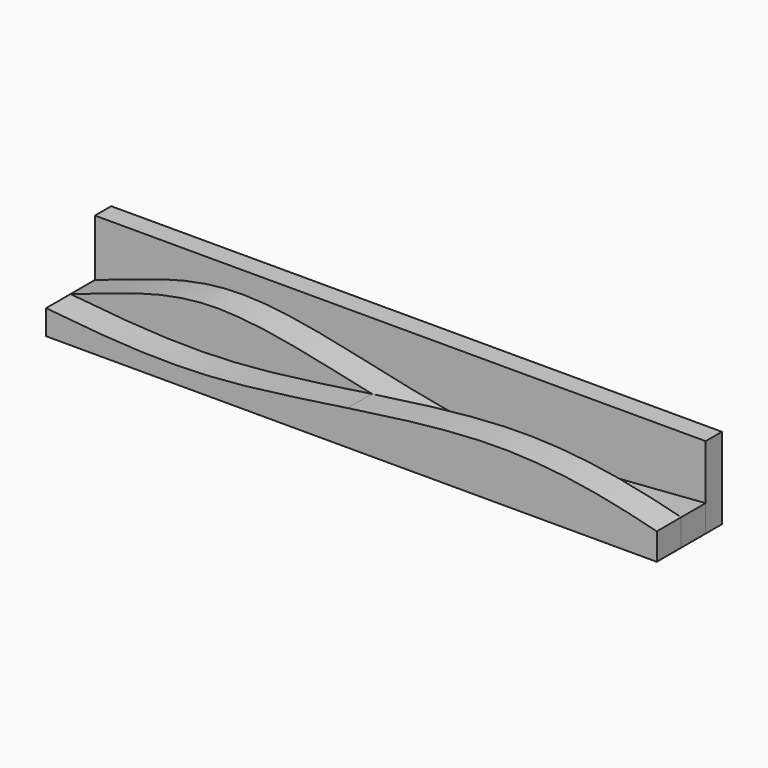
from build123d import *

# Parameters (mm, degrees)
F0_W     = 60
F0_H     = 8
F1_DEPTH = 2
F3_DEPTH = 3
F5_DEPTH = 3


with BuildPart() as f1:
    # F0 (on Front) → F1 (new body)
    with BuildSketch(Plane.XZ):
        with Locations((0, 4)):
            Rectangle(F0_W, F0_H)
    extrude(amount=F1_DEPTH)


with BuildPart() as f3:
    # F2 (on face) → F3 (new body)
    with BuildSketch(Plane.XZ.offset(2)):
        with BuildLine():
            Line((30, 0), (30, 2.6379409246))
            add(Edge.make_bspline(
                [(-30, 2.4299453944), (-25.7753089442, 3.7473113683), (-15.8059440997, 8.4259376352), (7.8064424043, -0.0315454429), (22.9400642828, 2.2146652387), (30, 2.6379409246)],
                knots=[0, 0, 0, 0, 0.2823099555, 0.6475705955, 1, 1, 1, 1], degree=3))
            Line((-30, 2.4299453944), (-30, 0))
            Line((-30, 0), (30, 0))
        make_face()
    extrude(amount=F3_DEPTH)


with BuildPart() as f5:
    # F4 (on face) → F5 (new body)
    with BuildSketch(Plane.XZ.offset(5)):
        with BuildLine():
            Line((30, 0), (30, 2.6379409246))
            add(Edge.make_bspline(
                [(-0.3818561897, 3.4225663377), (2.2921859732, 2.848791241), (13.0066260243, 0.7402927917), (22.9400642828, 2.2146652387), (30, 2.6379409246)],
                knots=[0.5289211134, 0.5289211134, 0.5289211134, 0.5289211134, 0.6475705955, 1, 1, 1, 1], degree=3))
            add(Edge.make_bspline(
                [(-30, 2.4299453944), (-25.0229177526, 1.9377897531), (-16.3615874818, 0.9969518948), (-4.7420355501, 2.7876398307), (-0.3818561897, 3.4225663377)],
                knots=[0, 0, 0, 0, 0.3090053833, 0.4920755652, 0.4920755652, 0.4920755652, 0.4920755652], degree=3))
            Line((-30, 2.4299453944), (-30, 0))
            Line((-30, 0), (30, 0))
        make_face()
        with BuildLine():
            add(Edge.make_bspline(
                [(-0.3818561897, 3.4225663377), (2.2921859732, 2.848791241), (13.0066260243, 0.7402927917), (22.9400642828, 2.2146652387), (30, 2.6379409246)],
                knots=[0.5289211134, 0.5289211134, 0.5289211134, 0.5289211134, 0.6475705955, 1, 1, 1, 1], degree=3))
            add(Edge.make_bspline(
                [(-0.3818561897, 3.4225663377), (4.5549169776, 4.1414560631), (16.7692529019, 5.8047993769), (26.0268184921, 3.6596331068), (30, 2.6379409246)],
                knots=[0.4920755652, 0.4920755652, 0.4920755652, 0.4920755652, 0.6993551029, 1, 1, 1, 1], degree=3))
        make_face()
    extrude(amount=F5_DEPTH)


solid = Compound([f1.part, f3.part, f5.part])
